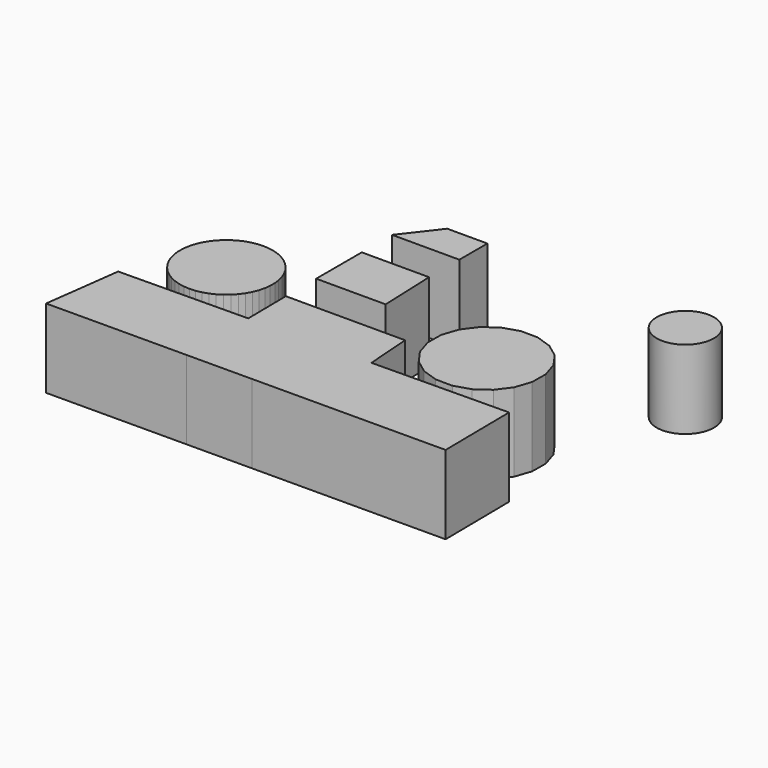
from build123d import *

# Parameters (mm, degrees)
F1_DEPTH = 25.4
F3_R     = 9.2391890303
F4_DEPTH = 25.4
F6_DEPTH = 25.4


with BuildPart() as f1:
    # F0 (on Top) → F1 (new body)
    with BuildSketch(Plane.XY):
        Polygon((-35.2999434542, -15.9238262774), (-33.8535144259, -14.7299484609), (-32.5681234897, -13.3641991003), (-31.4640420286, -11.848116879), (-30.5586820668, -10.2056113191), (-29.8663216716, -8.4625857147), (-29.3978797801, -6.6465286206), (-29.1607440008, -4.7860803421), (-29.1586541066, -2.91058126), (-29.3916430563, -1.0496091151), (-29.8560364751, 0.7674874501), (-30.5445106012, 2.5120517373), (-31.4462077865, 4.1565709256), (-32.5469077277, 5.675109965), (-33.8292517292, 7.0437205876), (-35.2730164601, 8.2408189865), (-36.855432888, 9.2475262047), (-38.5515453607, 10.0479658681), (-40.3346051712, 10.6295145649), (-42.1764924012, 10.9830009248), (-44.0481593888, 11.1028502569), (-45.9200888274, 10.9871724654), (-47.7627592716, 10.6377918584), (-49.5471107078, 10.0602183766), (-51.2450028479, 9.2635606989), (-52.8296589185, 8.2603825928), (-54.2760879468, 7.0665047763), (-55.5614788829, 5.7007554158), (-56.665560344, 4.1846731944), (-57.5709203059, 2.5421676345), (-58.2632807011, 0.7991420301), (-58.7317225925, -1.016915064), (-58.9688583718, -2.8773633425), (-58.9709482661, -4.7528624246), (-58.7379593163, -6.6138345695), (-58.2735658976, -8.4309311347), (-57.5850917714, -10.1754954219), (-56.6833945861, -11.8200146102), (-55.5826946449, -13.3385536495), (-54.3003506434, -14.7071642722), (-52.8565859126, -15.9042626711), (-51.2741694846, -16.9109698893), (-49.5780570119, -17.7114095526), (-47.7949972014, -18.2929582495), (-45.9531099714, -18.6464446094), (-44.0814429839, -18.7662939415), (-42.2095135452, -18.65061615), (-40.366843101, -18.301235543), (-38.5824916648, -17.7236620612), (-36.8845995248, -16.9270043835), align=None)
    extrude(amount=F1_DEPTH)


with BuildPart() as f1b:
    # F0 (on Top) → F1, piece 2 (new body)
    with BuildSketch(Plane.XY):
        Polygon((45.8826378737, -17.0699117925), (50.2753301706, -13.9487886581), (53.4885487135, -9.6230075922), (55.2077612837, -4.516006185), (55.2646793763, 0.8723066832), (53.653731452, 6.0144854062), (50.5326083176, 10.407177703), (46.2068272516, 13.6203962459), (41.0998258444, 15.3396088161), (35.7115129763, 15.3965269088), (30.5693342532, 13.7855789844), (26.1766419564, 10.66445585), (22.9634234135, 6.3386747841), (21.2442108433, 1.2316733769), (21.1872927506, -4.1566394913), (22.798240675, -9.2988182143), (25.9193638094, -13.6915105111), (30.2451448753, -16.904729054), (35.3521462825, -18.6239416242), (40.7404591507, -18.6808597169), align=None)
    extrude(amount=F1_DEPTH)


with BuildPart() as f4:
    # F3 (on Top) → F4 (new body)
    with BuildSketch(Plane.XY):
        with Locations((66.8726712465, 42.6963306963)):
            Circle(F3_R)
    extrude(amount=F4_DEPTH)


with BuildPart() as f4b:
    # F2 (on Top) → F4, piece 2 (new body)
    with BuildSketch(Plane.XY):
        Polygon((-13.7759521604, 47.4403649569), (-22.534172982, 36.1276641488), (-0.8210833184, 36.1276641488), (-0.8210833184, 47.4403649569), align=None)
    extrude(amount=F4_DEPTH)


with BuildPart() as f4c:
    # F2 (on Top) → F4, piece 3 (new body)
    with BuildSketch(Plane.XY):
        Polygon((-0.8210833184, 23.9026453346), (-22.534172982, 23.9026453346), (-22.534172982, 5.4876731566), (-0.1027688056, 5.4876731566), align=None)
    extrude(amount=F4_DEPTH)


with BuildPart() as f6:
    # F5 (on Top) → F6 (new body)
    with BuildSketch(Plane.XY):
        Polygon((-22.0554731194, -47.4393907258), (-22.3531693042, -22.1359777789), (-63.9532580972, -22.6254053414), (-67.2375932336, -47.608587577), align=None)
        Polygon((17.0406657768, -21.6725069248), (-22.3531693042, -22.1359777789), (-22.0554731194, -47.4393907258), (-0.9564412048, -47.3603796091), (18.874789772, -47.1270639764), align=None)
        Polygon((15.9655082971, -6.751128938), (-22.534172982, -6.751128938), (-22.3531693042, -22.1359777789), (17.0406657768, -21.6725069248), align=None)
        Polygon((61.0423149158, -21.1548248595), (17.0406657768, -21.6725069248), (18.874789772, -47.1270639764), (-0.9564412048, -47.3603796091), (61.347879881, -47.1270639764), align=None)
    extrude(amount=F6_DEPTH)


solid = Compound([f1.part, f1b.part, f4.part, f4b.part, f4c.part, f6.part])
